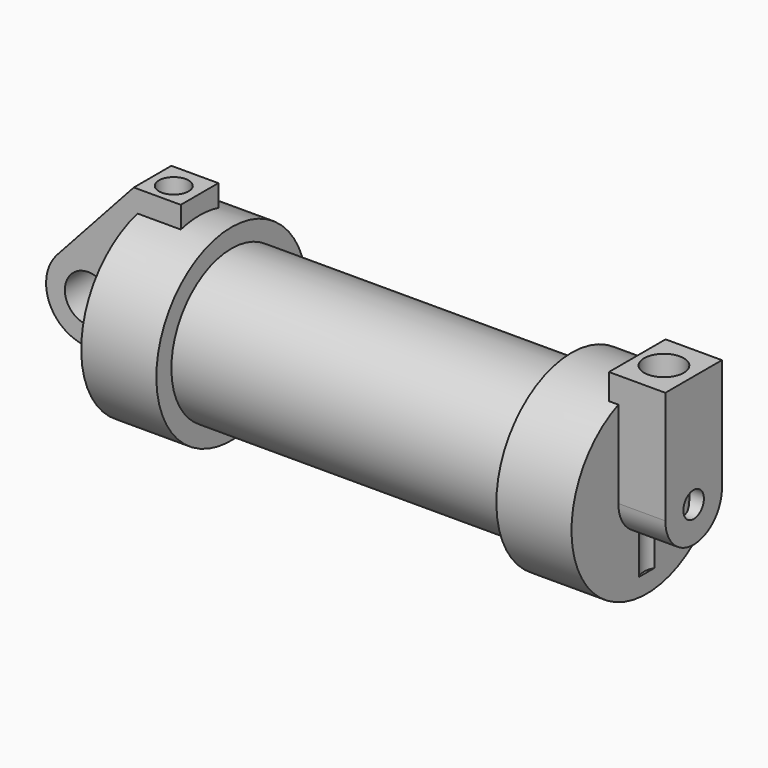
from build123d import *

# Parameters (mm, degrees)
F0_W          = 5.842
F0_H          = 12.7
F0_R          = 3.175
F2_DEPTH      = 3.175
F3_R          = 1.7344184536
F4_DEPTH      = 6.35
F4_DEPTH_BACK = 1.27
F5_DEPTH      = 56.134
F6_R          = 2.6798601648
F7_DEPTH      = 25.4
F8_R          = 2.0084495131
F9_DEPTH      = 25.4


with BuildPart() as f1:
    # F0 (on Front) → F1 (revolve)
    with BuildSketch(Plane.XZ):
        Polygon((5.842, 12.7), (5.842, 0), (66.294, 0), (66.294, 12.7), (56.134, 12.7), (56.134, 10.16), (10.16, 10.16), (10.16, 12.7), align=None)
        with Locations((2.921, 6.35)):
            Rectangle(F0_W, F0_H)
    revolve(axis=Axis((33.147, 0, 0), (-1, 0, 0)))

    # F0 (on Front) → F2 (join, symmetric)
    with BuildSketch(Plane.XZ):
        with Locations((2.921, 6.35)):
            Rectangle(F0_W, F0_H)
        with BuildLine():
            Line((-0.9398, 0), (0, 0))
            Line((0, 0), (0, 12.7))
            Line((0, 12.7), (5.842, 12.7))
            Line((5.842, 12.7), (5.842, 15.24))
            Line((5.842, 15.24), (-0.508, 15.24))
            Line((-0.508, 15.24), (-10.8806298187, 3.8475430269))
            ThreePointArc((-10.8806298187, 3.8475430269), (-4.5919612295, 5.3297205562), (-0.9398, 0))
        make_face()
        with BuildLine():
            Line((5.842, 0), (0, 0))
            Line((0, 0), (-0.9398, 0))
            ThreePointArc((-0.9398, 0), (-3.1957909266, -4.5493385486), (-8.1826630726, -5.5069827884))
            Line((-8.1826630726, -5.5069827884), (5.842, -9.398))
            Line((5.842, -9.398), (5.842, 0))
        make_face()
        with BuildLine():
            ThreePointArc((-8.1826630726, -5.5069827884), (-3.1957909266, -4.5493385486), (-0.9398, 0))
            ThreePointArc((-0.9398, 0), (-4.5919612295, 5.3297205562), (-10.8806298187, 3.8475430269))
            ThreePointArc((-10.8806298187, 3.8475430269), (-12.1459778134, -1.5837270034), (-8.1826630726, -5.5069827884))
        make_face()
        with Locations((-6.6548, 0)):
            Circle(F0_R, mode=Mode.SUBTRACT)
        with BuildLine():
            Line((-0.9398, 0), (0, 0))
            Line((0, 0), (0, 12.7))
            Line((0, 12.7), (5.842, 12.7))
            Line((5.842, 12.7), (5.842, 15.24))
            Line((5.842, 15.24), (-0.508, 15.24))
            Line((-0.508, 15.24), (-10.8806298187, 3.8475430269))
            ThreePointArc((-10.8806298187, 3.8475430269), (-4.5919612295, 5.3297205562), (-0.9398, 0))
        make_face()
        with BuildLine():
            Line((5.842, 0), (0, 0))
            Line((0, 0), (-0.9398, 0))
            ThreePointArc((-0.9398, 0), (-3.1957909266, -4.5493385486), (-8.1826630726, -5.5069827884))
            Line((-8.1826630726, -5.5069827884), (5.842, -9.398))
            Line((5.842, -9.398), (5.842, 0))
        make_face()
        with BuildLine():
            ThreePointArc((-8.1826630726, -5.5069827884), (-3.1957909266, -4.5493385486), (-0.9398, 0))
            ThreePointArc((-0.9398, 0), (-4.5919612295, 5.3297205562), (-10.8806298187, 3.8475430269))
            ThreePointArc((-10.8806298187, 3.8475430269), (-12.1459778134, -1.5837270034), (-8.1826630726, -5.5069827884))
        make_face()
        with Locations((-6.6548, 0)):
            Circle(F0_R, mode=Mode.SUBTRACT)
    extrude(amount=F2_DEPTH, both=True)

    # F3 (on face) → F4 (join, two sides)
    with BuildSketch(Plane.YZ.offset(66.294)) as f4_sk:
        with BuildLine():
            ThreePointArc((-4.7824184536, 0), (0, -4.7824184536), (4.7824184536, 0))
            ThreePointArc((4.7824184536, 0), (0, 4.7824184536), (-4.7824184536, 0))
        make_face()
        Circle(F3_R, mode=Mode.SUBTRACT)
        with BuildLine():
            ThreePointArc((-4.7824184536, 0), (0, 4.7824184536), (4.7824184536, 0))
            Line((4.7824184536, 0), (4.7824184536, 15.24))
            Line((4.7824184536, 15.24), (-4.7824184536, 15.24))
            Line((-4.7824184536, 15.24), (-4.7824184536, 0))
        make_face()
    extrude(amount=F4_DEPTH)
    extrude(f4_sk.sketch, amount=-F4_DEPTH_BACK)

    # F5 (cut, through all): a face of the model
    f5_faces = [f1.faces().sort_by_distance(p)[0] for p in [
        (66.294, 0, 0),
    ]]
    extrude(f5_faces, amount=-F5_DEPTH, mode=Mode.SUBTRACT)

    # F6 (on face) → F7 (cut)
    with BuildSketch(Plane.XY.offset(15.24)):
        with Locations((68.6287283897, 0)):
            Circle(F6_R)
    extrude(amount=-F7_DEPTH, mode=Mode.SUBTRACT)

    # F8 (on face) → F9 (cut)
    with BuildSketch(Plane.XY.offset(15.24)):
        with Locations((2.5553756859, -0.2507429745)):
            Circle(F8_R)
    extrude(amount=-F9_DEPTH, mode=Mode.SUBTRACT)


solid = f1.part
